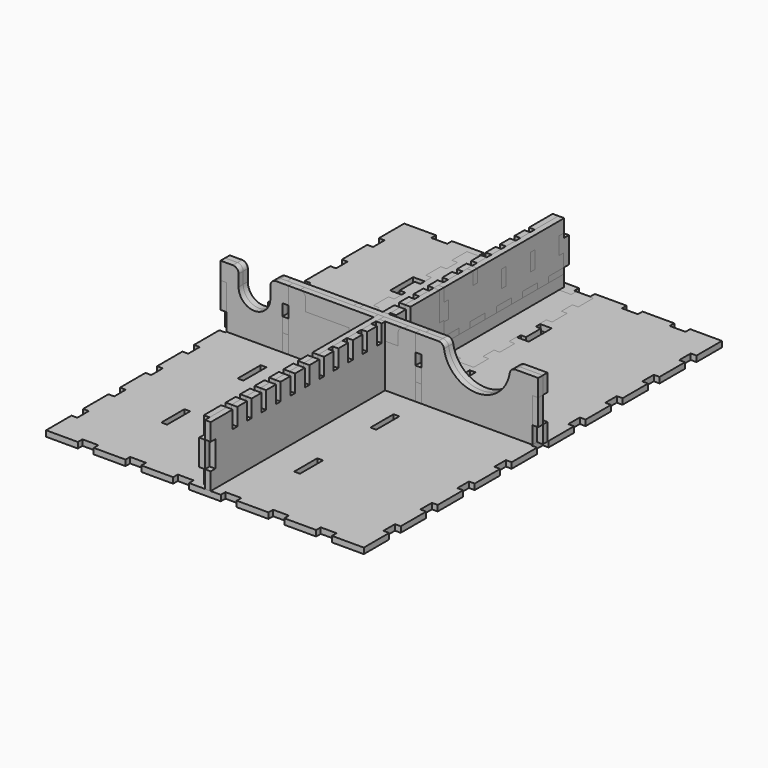
from build123d import *

# Parameters (mm, degrees)
F1_W      = 4
F1_H      = 20
F1_W_2    = 20
F1_H_2    = 4
F1_W_3    = 8
F2_DEPTH  = 4
F3_W      = 10
F3_H      = 4
F4_DEPTH  = 4
F5_W      = 4
F5_H      = 12
F5_W_2    = 20
F5_H_2    = 4
F6_DEPTH  = 4
F7_W      = 4
F7_H      = 12
F8_DEPTH  = 4
F9_W      = 4
F9_H      = 12
F10_DEPTH = 4
F11_W     = 4
F11_H     = 18
F11_W_2   = 11
F11_H_2   = 4
F12_DEPTH = 4
F13_W     = 4
F13_H     = 18
F14_DEPTH = 4
F15_W     = 20
F15_H     = 4
F16_DEPTH = 4
F17_W     = 26.5
F17_H     = 4
F17_W_2   = 4
F17_H_2   = 9
F17_W_3   = 8.1
F18_DEPTH = 4
F20_DEPTH = 4
F21_W     = 4
F21_H     = 12
F21_W_2   = 13.0333333333
F21_H_2   = 4
F22_DEPTH = 4
F23_W     = 4
F23_H     = 12
F23_W_2   = 9.625
F23_H_2   = 4
F24_DEPTH = 4
F26_DEPTH = 4
F28_DEPTH = 4
F30_DEPTH = 4
F32_DEPTH = 4
F34_DEPTH = 4
F36_DEPTH = 4


with BuildPart() as f2:
    # F1 (on Top) → F2 (new body)
    with BuildSketch(Plane.XY):
        with BuildLine():
            Line((-88, 155), (-110, 155))
            Line((-110, 155), (-110, 133))
            Line((-110, 133), (-106, 133))
            Line((-106, 133), (-106, 123))
            Line((-106, 123), (-110, 123))
            Line((-110, 123), (-110, 101))
            Line((-110, 101), (-106, 101))
            Line((-106, 101), (-106, 91))
            Line((-106, 91), (-110, 91))
            Line((-110, 91), (-110, 69))
            Line((-110, 69), (-106, 69))
            Line((-106, 69), (-106, 59))
            Line((-106, 59), (-110, 59))
            Line((-110, 59), (-110, 37))
            Line((-110, 37), (-106, 37))
            Line((-106, 37), (-106, 27))
            Line((-106, 27), (-110, 27))
            Line((-110, 27), (-110, 5))
            Line((-110, 5), (-106, 5))
            Line((-106, 5), (-106, -5))
            Line((-106, -5), (-110, -5))
            Line((-110, -5), (-110, -27))
            Line((-110, -27), (-106, -27))
            Line((-106, -27), (-106, -37))
            Line((-106, -37), (-110, -37))
            Line((-110, -37), (-110, -59))
            Line((-110, -59), (-106, -59))
            Line((-106, -59), (-106, -69))
            Line((-106, -69), (-110, -69))
            Line((-110, -69), (-110, -91))
            Line((-110, -91), (-106, -91))
            Line((-106, -91), (-106, -101))
            Line((-106, -101), (-110, -101))
            Line((-110, -101), (-110, -123))
            Line((-110, -123), (-106, -123))
            Line((-106, -123), (-106, -133))
            Line((-106, -133), (-110, -133))
            Line((-110, -133), (-110, -155))
            Line((-110, -155), (-88, -155))
            Line((-88, -155), (-88, -151))
            Line((-88, -151), (-77, -151))
            Line((-77, -151), (-77, -155))
            Line((-77, -155), (-55, -155))
            Line((-55, -155), (-55, -151))
            Line((-55, -151), (-44, -151))
            Line((-44, -151), (-44, -155))
            Line((-44, -155), (-22, -155))
            Line((-22, -155), (-22, -151))
            Line((-22, -151), (-11, -151))
            Line((-11, -151), (-11, -155))
            Line((-11, -155), (11, -155))
            Line((11, -155), (11, -151))
            Line((11, -151), (22, -151))
            Line((22, -151), (22, -155))
            Line((22, -155), (44, -155))
            Line((44, -155), (44, -151))
            Line((44, -151), (55, -151))
            Line((55, -151), (55, -155))
            Line((55, -155), (77, -155))
            Line((77, -155), (77, -151))
            Line((77, -151), (88, -151))
            Line((88, -151), (88, -155))
            Line((88, -155), (110, -155))
            Line((110, -155), (110, -133))
            Line((110, -133), (106, -133))
            Line((106, -133), (106, -123))
            Line((106, -123), (110, -123))
            Line((110, -123), (110, -101))
            Line((110, -101), (106, -101))
            Line((106, -101), (106, -91))
            Line((106, -91), (110, -91))
            Line((110, -91), (110, -69))
            Line((110, -69), (106, -69))
            Line((106, -69), (106, -59))
            Line((106, -59), (110, -59))
            Line((110, -59), (110, -37))
            Line((110, -37), (106, -37))
            Line((106, -37), (106, -27))
            Line((106, -27), (110, -27))
            Line((110, -27), (110, -5))
            Line((110, -5), (106, -5))
            Line((106, -5), (106, 5))
            Line((106, 5), (110, 5))
            Line((110, 5), (110, 27))
            Line((110, 27), (106, 27))
            Line((106, 27), (106, 37))
            Line((106, 37), (110, 37))
            Line((110, 37), (110, 59))
            Line((110, 59), (106, 59))
            Line((106, 59), (106, 69))
            Line((106, 69), (110, 69))
            Line((110, 69), (110, 91))
            Line((110, 91), (106, 91))
            Line((106, 91), (106, 101))
            Line((106, 101), (110, 101))
            Line((110, 101), (110, 123))
            Line((110, 123), (106, 123))
            Line((106, 123), (106, 133))
            Line((106, 133), (110, 133))
            Line((110, 133), (110, 155))
            Line((110, 155), (88, 155))
            Line((88, 155), (88, 151))
            Line((88, 151), (77, 151))
            Line((77, 151), (77, 155))
            Line((77, 155), (55, 155))
            Line((55, 155), (55, 151))
            Line((55, 151), (44, 151))
            Line((44, 151), (44, 155))
            Line((44, 155), (22, 155))
            Line((22, 155), (22, 151))
            Line((22, 151), (11, 151))
            Line((11, 151), (11, 155))
            Line((11, 155), (-9, 155))
            Line((-9, 155), (-9, 143))
            ThreePointArc((-9, 143), (-19, 133), (-29, 143))
            Line((-29, 143), (-29, 155))
            Line((-29, 155), (-44, 155))
            Line((-44, 155), (-44, 151))
            Line((-44, 151), (-55, 151))
            Line((-55, 151), (-55, 155))
            Line((-55, 155), (-77, 155))
            Line((-77, 155), (-77, 151))
            Line((-77, 151), (-88, 151))
            Line((-88, 151), (-88, 155))
        make_face()
        with Locations((-65, -99)):
            Rectangle(F1_W, F1_H, mode=Mode.SUBTRACT)
        with Locations((-65, -33)):
            Rectangle(F1_W, F1_H, mode=Mode.SUBTRACT)
        with Locations((27, -99)):
            Rectangle(F1_W, F1_H, mode=Mode.SUBTRACT)
        with Locations((27, -33)):
            Rectangle(F1_W, F1_H, mode=Mode.SUBTRACT)
        with Locations((-65, 33)):
            Rectangle(F1_W, F1_H, mode=Mode.SUBTRACT)
        with Locations((-19, 16)):
            Rectangle(F1_W_2, F1_H_2, mode=Mode.SUBTRACT)
        with Locations((-19, 45)):
            Rectangle(F1_W_2, F1_H_2, mode=Mode.SUBTRACT)
        with Locations((-63, 99)):
            Rectangle(F1_W_3, F1_H, mode=Mode.SUBTRACT)
        with Locations((27, 33)):
            Rectangle(F1_W, F1_H, mode=Mode.SUBTRACT)
        with Locations((25, 99)):
            Rectangle(F1_W_3, F1_H, mode=Mode.SUBTRACT)
    extrude(amount=F2_DEPTH)


with BuildPart() as f4:
    # F3 (on Right) → F4 (new body)
    with BuildSketch(Plane.YZ):
        Polygon((-155, 4), (-151, 4), (-133, 4), (-123, 4), (-101, 4), (-91, 4), (-69, 4), (-59, 4), (-37, 4), (-27, 4), (-5, 4), (5, 4), (27, 4), (37, 4), (59, 4), (69, 4), (91, 4), (101, 4), (123, 4), (133, 4), (151, 4), (151, 16), (155, 16), (155, 34), (151, 34), (151, 46), (130.5, 46), (130.5, 34), (126.5, 34), (126.5, 46), (118, 46), (118, 34), (114, 34), (114, 46), (105.5, 46), (105.5, 34), (101.5, 34), (101.5, 46), (93, 46), (93, 34), (89, 34), (89, 46), (80.5, 46), (80.5, 34), (76.5, 34), (76.5, 46), (68, 46), (68, 34), (64, 34), (64, 46), (55.5, 46), (55.5, 34), (51.5, 34), (51.5, 46), (43, 46), (43, 34), (39, 34), (39, 46), (30.5, 46), (30.5, 34), (26.5, 34), (26.5, 46), (18, 46), (18, 34), (14, 34), (14, 46), (5.5, 46), (5.5, 34), (1.5, 34), (1.5, 46), (-7, 46), (-7, 34), (-11, 34), (-11, 46), (-19.5, 46), (-19.5, 34), (-23.5, 34), (-23.5, 46), (-32, 46), (-32, 34), (-36, 34), (-36, 46), (-44.5, 46), (-44.5, 34), (-48.5, 34), (-48.5, 46), (-57, 46), (-57, 34), (-61, 34), (-61, 46), (-69.5, 46), (-69.5, 34), (-73.5, 34), (-73.5, 46), (-82, 46), (-82, 34), (-86, 34), (-86, 46), (-94.5, 46), (-94.5, 34), (-98.5, 34), (-98.5, 46), (-107, 46), (-107, 34), (-111, 34), (-111, 46), (-119.5, 46), (-119.5, 34), (-123.5, 34), (-123.5, 46), (-132, 46), (-132, 34), (-136, 34), (-136, 46), (-151, 46), (-155, 46), (-155, 34), (-151, 34), (-151, 16), (-155, 16), align=None)
        with Locations((-128, 2)):
            Rectangle(F3_W, F3_H)
        with Locations((-96, 2)):
            Rectangle(F3_W, F3_H)
        with Locations((-64, 2)):
            Rectangle(F3_W, F3_H)
        with Locations((-32, 2)):
            Rectangle(F3_W, F3_H)
        with Locations((0, 2)):
            Rectangle(F3_W, F3_H)
        with Locations((32, 2)):
            Rectangle(F3_W, F3_H)
        with Locations((64, 2)):
            Rectangle(F3_W, F3_H)
        with Locations((96, 2)):
            Rectangle(F3_W, F3_H)
        with Locations((128, 2)):
            Rectangle(F3_W, F3_H)
    extrude(amount=F4_DEPTH)


with BuildPart() as f6:
    # F5 (on Right) → F6 (new body)
    with BuildSketch(Plane.YZ):
        Polygon((-151, 46), (-151, 34), (-155, 34), (-155, 16), (-151, 16), (-151, 4), (-109, 4), (-89, 4), (-43, 4), (-23, 4), (23, 4), (43, 4), (89, 4), (109, 4), (151, 4), (151, 16), (155, 16), (155, 34), (151, 34), (151, 46), (130.5, 46), (130.5, 34), (126.5, 34), (126.5, 46), (118, 46), (118, 34), (114, 34), (114, 46), (105.5, 46), (105.5, 34), (101.5, 34), (101.5, 46), (93, 46), (93, 34), (89, 34), (89, 46), (80.5, 46), (80.5, 34), (76.5, 34), (76.5, 46), (68, 46), (68, 34), (64, 34), (64, 46), (55.5, 46), (55.5, 34), (51.5, 34), (51.5, 46), (43, 46), (43, 34), (39, 34), (39, 46), (30.5, 46), (30.5, 34), (26.5, 34), (26.5, 46), (18, 46), (18, 34), (14, 34), (14, 46), (5.5, 46), (5.5, 34), (1.5, 34), (1.5, 46), (-7, 46), (-7, 34), (-11, 34), (-11, 46), (-19.5, 46), (-19.5, 34), (-23.5, 34), (-23.5, 46), (-32, 46), (-32, 34), (-36, 34), (-36, 46), (-44.5, 46), (-44.5, 34), (-48.5, 34), (-48.5, 46), (-57, 46), (-57, 34), (-61, 34), (-61, 46), (-69.5, 46), (-69.5, 34), (-73.5, 34), (-73.5, 46), (-82, 46), (-82, 34), (-86, 34), (-86, 46), (-94.5, 46), (-94.5, 34), (-98.5, 34), (-98.5, 46), (-107, 46), (-107, 34), (-111, 34), (-111, 46), (-119.5, 46), (-119.5, 34), (-123.5, 34), (-123.5, 46), (-132, 46), (-132, 34), (-136, 34), (-136, 46), align=None)
        with Locations((16, 20)):
            Rectangle(F5_W, F5_H, mode=Mode.SUBTRACT)
        with Locations((45, 20)):
            Rectangle(F5_W, F5_H, mode=Mode.SUBTRACT)
        with Locations((-99, 2)):
            Rectangle(F5_W_2, F5_H_2)
        with Locations((-33, 2)):
            Rectangle(F5_W_2, F5_H_2)
        with Locations((33, 2)):
            Rectangle(F5_W_2, F5_H_2)
        with Locations((99, 2)):
            Rectangle(F5_W_2, F5_H_2)
    extrude(amount=-F6_DEPTH)


with BuildPart() as f8:
    # F7 (on Front) → F8 (new body)
    with BuildSketch(Plane.XZ):
        with BuildLine():
            Line((-60.585334684, 46), (-63, 46))
            Line((-63, 46), (-63, 26))
            Line((-63, 26), (-67, 26))
            Line((-67, 26), (-67, 14))
            Line((-67, 14), (-63, 14))
            Line((-63, 14), (-63, 4))
            Line((-63, 4), (-29, 4))
            Line((-29, 4), (-29, 0))
            Line((-29, 0), (-9, 0))
            Line((-9, 0), (-9, 4))
            Line((-9, 4), (25, 4))
            Line((25, 4), (25, 14))
            Line((25, 14), (29, 14))
            Line((29, 14), (29, 26))
            Line((29, 26), (25, 26))
            Line((25, 26), (25, 46))
            Line((25, 46), (22.7330795062, 46))
            ThreePointArc((22.7330795062, 46), (20.2113788184, 45.1050001032), (18.8181390582, 42.8205128205))
            ThreePointArc((18.8181390582, 42.8205128205), (3.6477448222, 30.5), (-11.5226494138, 42.8205128205))
            ThreePointArc((-11.5226494138, 42.8205128205), (-12.915889174, 45.1050001032), (-15.4375898618, 46))
            Line((-15.4375898618, 46), (-19, 46))
            Line((-19, 46), (-22.414665316, 46))
            ThreePointArc((-22.414665316, 46), (-24.9363660038, 45.1050001032), (-26.329605764, 42.8205128205))
            ThreePointArc((-26.329605764, 42.8205128205), (-41.5, 30.5), (-56.670394236, 42.8205128205))
            ThreePointArc((-56.670394236, 42.8205128205), (-58.0636339962, 45.1050001032), (-60.585334684, 46))
        make_face()
        with Locations((-19, 20)):
            Rectangle(F7_W, F7_H, mode=Mode.SUBTRACT)
    extrude(amount=F8_DEPTH)


with BuildPart() as f10:
    # F9 (on Right) → F10 (new body)
    with BuildSketch(Plane.YZ):
        Polygon((43, 46), (18, 46), (18, 26), (18, 14), (18, 4), (43, 4), (43, 14), (43, 26), align=None)
        with Locations((16, 20)):
            Rectangle(F9_W, F9_H)
        with Locations((45, 20)):
            Rectangle(F9_W, F9_H)
    extrude(amount=F10_DEPTH)


with BuildPart() as f12:
    # F11 (on Front) → F12 (new body)
    with BuildSketch(Plane.XZ):
        with BuildLine():
            Line((-106, 16), (-106, 4))
            Line((-106, 4), (-88, 4))
            Line((-88, 4), (-77, 4))
            Line((-77, 4), (-55, 4))
            Line((-55, 4), (-44, 4))
            Line((-44, 4), (-22, 4))
            Line((-22, 4), (-11, 4))
            Line((-11, 4), (11, 4))
            Line((11, 4), (22, 4))
            Line((22, 4), (44, 4))
            Line((44, 4), (55, 4))
            Line((55, 4), (77, 4))
            Line((77, 4), (88, 4))
            Line((88, 4), (106, 4))
            Line((106, 4), (106, 16))
            Line((106, 16), (106, 34))
            Line((106, 34), (106, 46))
            Line((106, 46), (94.2020598456, 46))
            ThreePointArc((94.2020598456, 46), (91.591539818, 45.0307070438), (90.2461991278, 42.5925925926))
            ThreePointArc((90.2461991278, 42.5925925926), (67.5, 23), (44.7538008722, 42.5925925926))
            ThreePointArc((44.7538008722, 42.5925925926), (43.408460182, 45.0307070438), (40.7979401544, 46))
            Line((40.7979401544, 46), (29, 46))
            Line((29, 46), (-67, 46))
            Line((-67, 46), (-71.5, 46))
            ThreePointArc((-71.5, 46), (-74.3284271247, 44.8284271247), (-75.5, 42))
            Line((-75.5, 42), (-75.5, 34))
            ThreePointArc((-75.5, 34), (-86.5, 23), (-97.5, 34))
            Line((-97.5, 34), (-97.5, 42))
            ThreePointArc((-97.5, 42), (-98.6715728753, 44.8284271247), (-101.5, 46))
            Line((-101.5, 46), (-106, 46))
            Line((-106, 46), (-106, 34))
            Line((-106, 34), (-106, 16))
        make_face()
        with Locations((-65, 25)):
            Rectangle(F11_W, F11_H, mode=Mode.SUBTRACT)
        with Locations((27, 25)):
            Rectangle(F11_W, F11_H, mode=Mode.SUBTRACT)
        with BuildLine():
            Line((-16, 40), (16, 40))
            ThreePointArc((16, 40), (0, 30.2462112512), (-16, 40))
        make_face(mode=Mode.SUBTRACT)
        with Locations((-82.5, 2)):
            Rectangle(F11_W_2, F11_H_2)
        with Locations((-108, 25)):
            Rectangle(F11_W, F11_H)
        with Locations((-49.5, 2)):
            Rectangle(F11_W_2, F11_H_2)
        with Locations((-16.5, 2)):
            Rectangle(F11_W_2, F11_H_2)
        with Locations((16.5, 2)):
            Rectangle(F11_W_2, F11_H_2)
        with Locations((49.5, 2)):
            Rectangle(F11_W_2, F11_H_2)
        with Locations((82.5, 2)):
            Rectangle(F11_W_2, F11_H_2)
        with Locations((108, 25)):
            Rectangle(F11_W, F11_H)
    extrude(amount=F12_DEPTH)


with BuildPart() as f14:
    # F13 (on Front) → F14 (new body)
    with BuildSketch(Plane.XZ):
        with BuildLine():
            Line((-110, 4), (-106, 4))
            Line((-106, 4), (-88, 4))
            Line((-88, 4), (-88, 0))
            Line((-88, 0), (-77, 0))
            Line((-77, 0), (-77, 4))
            Line((-77, 4), (-55, 4))
            Line((-55, 4), (-55, 0))
            Line((-55, 0), (-44, 0))
            Line((-44, 0), (-44, 4))
            Line((-44, 4), (-29, 4))
            Line((-29, 4), (-29, 12))
            ThreePointArc((-29, 12), (-19, 22), (-9, 12))
            Line((-9, 12), (-9, 4))
            Line((-9, 4), (11, 4))
            Line((11, 4), (11, 0))
            Line((11, 0), (22, 0))
            Line((22, 0), (22, 4))
            Line((22, 4), (44, 4))
            Line((44, 4), (44, 0))
            Line((44, 0), (55, 0))
            Line((55, 0), (55, 4))
            Line((55, 4), (77, 4))
            Line((77, 4), (77, 0))
            Line((77, 0), (88, 0))
            Line((88, 0), (88, 4))
            Line((88, 4), (106, 4))
            Line((106, 4), (110, 4))
            Line((110, 4), (110, 16))
            Line((110, 16), (106, 16))
            Line((106, 16), (106, 34))
            Line((106, 34), (110, 34))
            Line((110, 34), (110, 46))
            Line((110, 46), (94.2020598456, 46))
            ThreePointArc((94.2020598456, 46), (91.591539818, 45.0307070438), (90.2461991278, 42.5925925926))
            ThreePointArc((90.2461991278, 42.5925925926), (67.5, 23), (44.7538008722, 42.5925925926))
            ThreePointArc((44.7538008722, 42.5925925926), (43.408460182, 45.0307070438), (40.7979401544, 46))
            Line((40.7979401544, 46), (-71.5, 46))
            ThreePointArc((-71.5, 46), (-74.3284271247, 44.8284271247), (-75.5, 42))
            Line((-75.5, 42), (-75.5, 34))
            ThreePointArc((-75.5, 34), (-86.5, 23), (-97.5, 34))
            Line((-97.5, 34), (-97.5, 42))
            ThreePointArc((-97.5, 42), (-98.6715728753, 44.8284271247), (-101.5, 46))
            Line((-101.5, 46), (-110, 46))
            Line((-110, 46), (-110, 34))
            Line((-110, 34), (-106, 34))
            Line((-106, 34), (-106, 16))
            Line((-106, 16), (-110, 16))
            Line((-110, 16), (-110, 4))
        make_face()
        with Locations((-65, 25)):
            Rectangle(F13_W, F13_H, mode=Mode.SUBTRACT)
        with Locations((27, 25)):
            Rectangle(F13_W, F13_H, mode=Mode.SUBTRACT)
        with BuildLine():
            Line((-16, 40), (16, 40))
            ThreePointArc((16, 40), (0, 30.2462112512), (-16, 40))
        make_face(mode=Mode.SUBTRACT)
    extrude(amount=-F14_DEPTH)


with BuildPart() as f16:
    # F15 (on Right) → F16 (new body)
    with BuildSketch(Plane.YZ):
        Polygon((151, 12), (47, 12), (47, 4), (89, 4), (109, 4), (151, 4), align=None)
        with Locations((99, 2)):
            Rectangle(F15_W, F15_H)
    extrude(amount=F16_DEPTH)


with BuildPart() as f18:
    # F17 (on Top) → F18 (new body)
    with BuildSketch(Plane.XY):
        Polygon((-59, 150.5), (-59, 146.5), (-50.9, 146.5), (-50.9, 150.5), (-54.9, 150.5), align=None)
        Polygon((-50.9, 146.5), (-59, 146.5), (-59, 137.5), (-59, 127.875), (-59, 114.875), (-59, 105.25), (-59, 92.25), (-59, 82.625), (-59, 69.625), (-59, 60), (-59, 51), (-50.9, 51), (-37.8666666667, 51), (-25.7666666667, 51), (-12.7333333333, 51), (-0.6333333333, 51), (12.4, 51), (20.5, 51), (20.5, 60), (20.5, 69.625), (20.5, 82.625), (20.5, 92.25), (20.5, 105.25), (20.5, 114.875), (20.5, 127.875), (20.5, 137.5), (20.5, 146.5), (12.4, 146.5), (-0.6333333333, 146.5), (-12.7333333333, 146.5), (-25.7666666667, 146.5), (-37.8666666667, 146.5), align=None)
        with Locations((-19.25, 98.75)):
            Rectangle(F17_W, F17_H, mode=Mode.SUBTRACT)
        with Locations((-19.25, 123.625)):
            Rectangle(F17_W, F17_H, mode=Mode.SUBTRACT)
        with Locations((-61, 142)):
            Rectangle(F17_W_2, F17_H_2)
        with Locations((-61, 148.5)):
            Rectangle(F17_W_2, F17_H)
        Polygon((-37.8666666667, 150.5), (-37.8666666667, 146.5), (-25.7666666667, 146.5), (-25.7666666667, 150.5), (-29.7666666667, 150.5), align=None)
        Polygon((-59, 114.875), (-59, 127.875), (-63, 127.875), (-63, 123.875), (-63, 114.875), align=None)
        Polygon((-12.7333333333, 150.5), (-12.7333333333, 146.5), (-0.6333333333, 146.5), (-0.6333333333, 150.5), (-4.6333333333, 150.5), align=None)
        Polygon((-59, 92.25), (-59, 105.25), (-63, 105.25), (-63, 101.25), (-63, 92.25), align=None)
        with Locations((16.45, 148.5)):
            Rectangle(F17_W_3, F17_H)
        Polygon((-59, 69.625), (-59, 82.625), (-63, 82.625), (-63, 78.625), (-63, 69.625), align=None)
        with Locations((22.5, 142)):
            Rectangle(F17_W_2, F17_H_2)
        with Locations((22.5, 148.5)):
            Rectangle(F17_W_2, F17_H)
        Polygon((-59, 51), (-59, 60), (-63, 60), (-63, 56), (-63, 51), align=None)
        Polygon((24.5, 127.875), (20.5, 127.875), (20.5, 114.875), (24.5, 114.875), (24.5, 123.875), align=None)
        with Locations((-54.95, 49)):
            Rectangle(F17_W_3, F17_H)
        with Locations((-61, 49)):
            Rectangle(F17_W_2, F17_H)
        Polygon((24.5, 105.25), (20.5, 105.25), (20.5, 92.25), (24.5, 92.25), (24.5, 101.25), align=None)
        Polygon((-25.7666666667, 51), (-37.8666666667, 51), (-37.8666666667, 47), (-33.8666666667, 47), (-25.7666666667, 47), align=None)
        Polygon((24.5, 82.625), (20.5, 82.625), (20.5, 69.625), (24.5, 69.625), (24.5, 78.625), align=None)
        Polygon((-0.6333333333, 51), (-12.7333333333, 51), (-12.7333333333, 47), (-8.7333333333, 47), (-0.6333333333, 47), align=None)
        Polygon((24.5, 60), (20.5, 60), (20.5, 51), (24.5, 51), (24.5, 56), align=None)
        Polygon((20.5, 51), (12.4, 51), (12.4, 47), (16.4, 47), (20.5, 47), align=None)
        with Locations((22.5, 49)):
            Rectangle(F17_W_2, F17_H)
    extrude(amount=F18_DEPTH)


with BuildPart() as f20:
    # F19 (on Front) → F20 (new body)
    with BuildSketch(Plane.XZ):
        Polygon((-59, 37), (-63, 37), (-63, 25), (-59, 25), (-59, 16), (-32.5, 16), (-32.5, 12), (-6, 12), (-6, 16), (20.5, 16), (20.5, 25), (24.5, 25), (24.5, 37), (20.5, 37), (20.5, 46), (-59, 46), align=None)
    extrude(amount=F20_DEPTH)


with BuildPart() as f22:
    # F21 (on Front) → F22 (new body)
    with BuildSketch(Plane.XZ):
        Polygon((20.5, 37), (20.5, 46), (-59, 46), (-59, 37), (-59, 25), (-59, 16), (-50.9, 16), (-37.8666666667, 16), (-25.7666666667, 16), (-12.7333333333, 16), (-0.6333333333, 16), (12.4, 16), (20.5, 16), (20.5, 25), align=None)
        with Locations((22.5, 31)):
            Rectangle(F21_W, F21_H)
        with Locations((-61, 31)):
            Rectangle(F21_W, F21_H)
        with Locations((5.8833333333, 14)):
            Rectangle(F21_W_2, F21_H_2)
        with Locations((-44.3833333333, 14)):
            Rectangle(F21_W_2, F21_H_2)
        with Locations((-19.25, 14)):
            Rectangle(F21_W_2, F21_H_2)
    extrude(amount=-F22_DEPTH)


with BuildPart() as f24:
    # F23 (on Right) → F24 (new body)
    with BuildSketch(Plane.YZ):
        Polygon((150.5, 37), (150.5, 46), (75.875, 46), (75.875, 37), (71.875, 37), (71.875, 46), (47, 46), (47, 37), (51, 37), (51, 25), (47, 25), (47, 16), (60, 16), (69.625, 16), (82.625, 16), (92.25, 16), (105.25, 16), (114.875, 16), (127.875, 16), (137.5, 16), (150.5, 16), (150.5, 25), (146.5, 25), (146.5, 37), align=None)
        with Locations((98.75, 31)):
            Rectangle(F23_W, F23_H, mode=Mode.SUBTRACT)
        with Locations((123.625, 31)):
            Rectangle(F23_W, F23_H, mode=Mode.SUBTRACT)
        with Locations((132.6875, 14)):
            Rectangle(F23_W_2, F23_H_2)
        with Locations((110.0625, 14)):
            Rectangle(F23_W_2, F23_H_2)
        with Locations((87.4375, 14)):
            Rectangle(F23_W_2, F23_H_2)
        with Locations((64.8125, 14)):
            Rectangle(F23_W_2, F23_H_2)
    extrude(amount=F24_DEPTH)


with BuildPart() as f26:
    # F25 (on Front) → F26 (new body)
    with BuildSketch(Plane.XZ):
        Polygon((24.5, 46), (-63, 46), (-63, 37), (-59, 37), (-59, 16), (20.5, 16), (20.5, 37), (24.5, 37), align=None)
    extrude(amount=F26_DEPTH)


with BuildPart() as f28:
    # F27 (on Right) → F28 (new body)
    with BuildSketch(Plane.YZ):
        Polygon((14, 4), (14, 46), (-57, 46), (-57, 34), (-151, 34), (-151, 4), (-123.5, 4), (-123.5, 19), (-119.5, 19), (-119.5, 4), (-86, 4), (-86, 19), (-82, 19), (-82, 4), (-48.5, 4), (-48.5, 25), (-44.5, 25), (-44.5, 4), align=None)
    extrude(amount=-F28_DEPTH)


with BuildPart() as f30:
    # F29 (on Front) → F30 (new body)
    with BuildSketch(Plane.XZ):
        with BuildLine():
            Line((-55, 46), (-67, 46))
            Line((-67, 46), (-67, 34))
            Line((-67, 34), (-63, 34))
            Line((-63, 34), (-63, 4))
            Line((-63, 4), (25, 4))
            Line((25, 4), (25, 34))
            Line((25, 34), (29, 34))
            Line((29, 34), (29, 46))
            Line((29, 46), (17, 46))
            ThreePointArc((17, 46), (14.1715728753, 44.8284271247), (13, 42))
            Line((13, 42), (13, 34))
            Line((13, 34), (-17, 34))
            Line((-17, 34), (-17, 19))
            Line((-17, 19), (-21, 19))
            Line((-21, 19), (-21, 34))
            Line((-21, 34), (-51, 34))
            Line((-51, 34), (-51, 42))
            ThreePointArc((-51, 42), (-52.1715728753, 44.8284271247), (-55, 46))
        make_face()
    extrude(amount=F30_DEPTH)


with BuildPart() as f32:
    # F31 (on Front) → F32 (new body)
    with BuildSketch(Plane.XZ):
        Polygon((-21, 46), (-67, 46), (-67, 34), (-63, 34), (-63, 4), (25, 4), (25, 34), (29, 34), (29, 46), (-17, 46), (-17, 25), (-21, 25), align=None)
    extrude(amount=-F32_DEPTH)


with BuildPart() as f34:
    # F33 (on Front) → F34 (new body)
    with BuildSketch(Plane.XZ):
        with BuildLine():
            Line((40.7979401544, 46), (25, 46))
            Line((25, 46), (25, 34))
            Line((25, 34), (29, 34))
            Line((29, 34), (29, 4))
            Line((29, 4), (106, 4))
            Line((106, 4), (106, 34))
            Line((106, 34), (110, 34))
            Line((110, 34), (110, 46))
            Line((110, 46), (94.2020598456, 46))
            ThreePointArc((94.2020598456, 46), (91.591539818, 45.0307070438), (90.2461991278, 42.5925925926))
            ThreePointArc((90.2461991278, 42.5925925926), (67.5, 23), (44.7538008722, 42.5925925926))
            ThreePointArc((44.7538008722, 42.5925925926), (43.408460182, 45.0307070438), (40.7979401544, 46))
        make_face()
    extrude(amount=F34_DEPTH)


with BuildPart() as f36:
    # F35 (on Front) → F36 (new body)
    with BuildSketch(Plane.XZ):
        with BuildLine():
            Line((-101.5, 46), (-110, 46))
            Line((-110, 46), (-110, 34))
            Line((-110, 34), (-106, 34))
            Line((-106, 34), (-106, 4))
            Line((-106, 4), (-67, 4))
            Line((-67, 4), (-67, 34))
            Line((-67, 34), (-63, 34))
            Line((-63, 34), (-63, 46))
            Line((-63, 46), (-71.5, 46))
            ThreePointArc((-71.5, 46), (-74.3284271247, 44.8284271247), (-75.5, 42))
            Line((-75.5, 42), (-75.5, 34))
            ThreePointArc((-75.5, 34), (-86.5, 23), (-97.5, 34))
            Line((-97.5, 34), (-97.5, 42))
            ThreePointArc((-97.5, 42), (-98.6715728753, 44.8284271247), (-101.5, 46))
        make_face()
    extrude(amount=F36_DEPTH)


solid = Compound([f2.part, f4.part, f6.part, f8.part, f10.part, f12.part, f14.part, f16.part, f18.part, f20.part, f22.part, f24.part, f26.part, f28.part, f30.part, f32.part, f34.part, f36.part])
